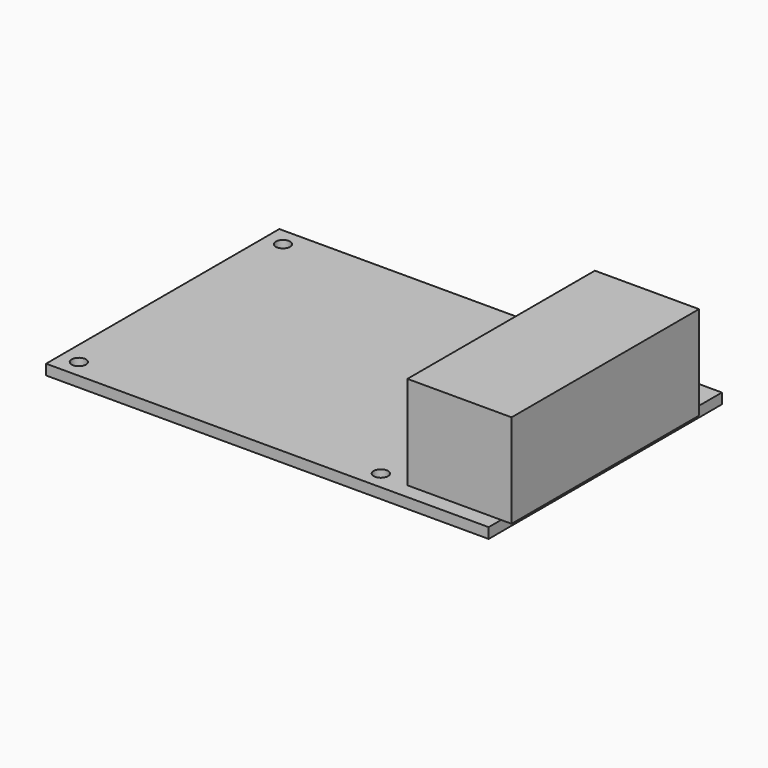
from build123d import *

# Parameters (mm, degrees)
F0_W     = 85
F0_H     = 56
F0_R     = 1.375
F1_DEPTH = 2
F2_W     = 20
F2_H     = 45
F3_DEPTH = 18


with BuildPart() as f1:
    # F0 (on Top) → F1 (new body)
    with BuildSketch(Plane.XY):
        Rectangle(F0_W, F0_H)
        with Locations((-39, -24.5)):
            Circle(F0_R, mode=Mode.SUBTRACT)
        with Locations((19, -24.5)):
            Circle(F0_R, mode=Mode.SUBTRACT)
        with Locations((-39, 24.5)):
            Circle(F0_R, mode=Mode.SUBTRACT)
        with Locations((19, 24.5)):
            Circle(F0_R, mode=Mode.SUBTRACT)
    extrude(amount=F1_DEPTH)


with BuildPart() as f3:
    # F2 (on face) → F3 (new body)
    with BuildSketch(Plane.XY.offset(2)):
        with Locations((34.5, -2.5)):
            Rectangle(F2_W, F2_H)
    extrude(amount=F3_DEPTH)


solid = Compound([f1.part, f3.part])
